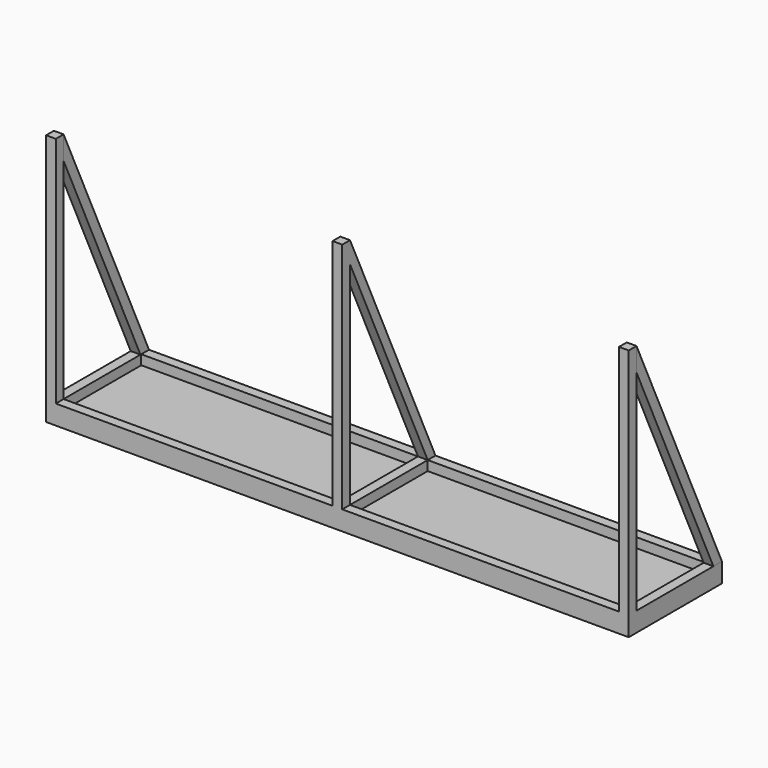
from build123d import *

# Parameters (mm, degrees)
F0_W      = 1524
F0_H      = 304.8
F1_DEPTH  = 25.4
F2_W      = 1524
F2_H      = 304.8
F2_W_2    = 723.9
F2_H_2    = 254
F3_DEPTH  = 25.4
F4_W      = 25.4
F4_H      = 25.4
F5_DEPTH  = 609.6
F7_DEPTH  = 25.4
F9_DEPTH  = 25.4
F11_DEPTH = 25.4


with BuildPart() as f1:
    # F0 (on Top) → F1 (new body)
    with BuildSketch(Plane.XY):
        with Locations((762, 152.4)):
            Rectangle(F0_W, F0_H)
    extrude(amount=F1_DEPTH)

    # F2 (on face) → F3 (join)
    with BuildSketch(Plane.XY.offset(25.4)):
        with Locations((762, 152.4)):
            Rectangle(F2_W, F2_H)
        with Locations((387.35, 152.4)):
            Rectangle(F2_W_2, F2_H_2, mode=Mode.SUBTRACT)
        with Locations((1136.65, 152.4)):
            Rectangle(F2_W_2, F2_H_2, mode=Mode.SUBTRACT)
    extrude(amount=F3_DEPTH)

    # F4 (on face) → F5 (join)
    with BuildSketch(Plane.XY.offset(50.8)):
        with Locations((12.7, 12.7)):
            Rectangle(F4_W, F4_H)
        with Locations((762, 12.7)):
            Rectangle(F4_W, F4_H)
        with Locations((1511.3, 12.7)):
            Rectangle(F4_W, F4_H)
    extrude(amount=F5_DEPTH)

    # F8 (on face) → F9 (join)
    with BuildSketch(Plane(origin=(749.3, 0, 0), x_dir=(0, -1, 0), z_dir=(-1, 0, 0))):
        Polygon((-25.4, 604.981818), (-25.4, 660.4), (-304.8, 50.8), (-279.4, 50.8), align=None)
    extrude(amount=-F9_DEPTH)


with BuildPart() as f7:
    # F6 (on face) → F7 (new body)
    with BuildSketch(Plane(origin=(0, 0, 0), x_dir=(0, -1, 0), z_dir=(-1, 0, 0))):
        Polygon((-25.4, 599.438251), (-25.4, 660.4), (-304.8, 50.8), (-276.859198, 50.8), align=None)
    extrude(amount=-F7_DEPTH)


with BuildPart() as f11:
    # F10 (on face) → F11 (new body)
    with BuildSketch(Plane.YZ.offset(1524)):
        Polygon((276.859198, 50.8), (304.8, 50.8), (25.4, 660.4), (25.4, 599.438251), align=None)
    extrude(amount=-F11_DEPTH)


solid = Compound([f1.part, f7.part, f11.part])
